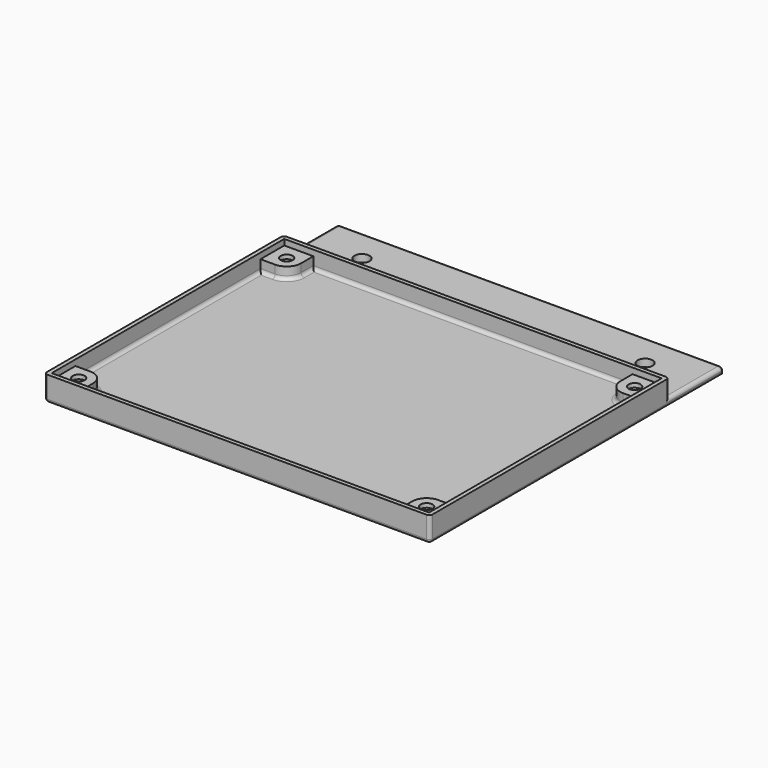
from build123d import *

# Parameters (mm, degrees)
SKETCH005_W  = 112.87
SKETCH005_H  = 87.5
PAD_DEPTH    = 2.2
SKETCH006_W  = 112.87
SKETCH006_H  = 87.5
PAD001_DEPTH = 2.2
SKETCH007_W  = 112.87
SKETCH007_H  = 87.5
SKETCH007_R  = 1.75
PAD002_DEPTH = 1.2
SKETCH008_W  = 112.87
SKETCH008_H  = 87.5
PAD003_DEPTH = 1.7
SKETCH010_W  = 112.87
SKETCH010_H  = 20
SKETCH010_R  = 2.2
PAD004_DEPTH = 2.2
FILLET_R     = 1


with BuildPart() as part:
    # Sketch005 → Pad (new body)
    with BuildSketch(Plane.XY):
        Rectangle(SKETCH005_W, SKETCH005_H)
        Polygon((-47.980514, 36.35), (-47.980514, 39.75), (-50.925, 41.45), (-53.869486, 39.75), (-53.869486, 36.35), (-50.925, 34.65), align=None, mode=Mode.SUBTRACT)
        Polygon((53.869486, 36.35), (53.869486, 39.75), (50.925, 41.45), (47.980514, 39.75), (47.980514, 36.35), (50.925, 34.65), align=None, mode=Mode.SUBTRACT)
        Polygon((53.869486, -36.35), (50.925, -34.65), (47.980514, -36.35), (47.980514, -39.75), (50.925, -41.45), (53.869486, -39.75), align=None, mode=Mode.SUBTRACT)
        Polygon((-47.980514, -39.75), (-47.980514, -36.35), (-50.925, -34.65), (-53.869486, -36.35), (-53.869486, -39.75), (-50.925, -41.45), align=None, mode=Mode.SUBTRACT)
    extrude(amount=PAD_DEPTH)

    # Sketch006 → Pad001 (join)
    with BuildSketch(Plane.XY.offset(2.2)):
        Rectangle(SKETCH006_W, SKETCH006_H)
        with BuildLine():
            Line((55.235, 33.85), (55.235, -33.85))
            Line((50.925, -33.85), (55.235, -33.85))
            ThreePointArc((50.925, -33.85), (47.955152, -35.080152), (46.725, -38.05))
            Line((46.725, -38.05), (46.725, -42.55))
            Line((46.725, -42.55), (-46.725, -42.55))
            Line((-46.725, -38.05), (-46.725, -42.55))
            ThreePointArc((-46.725, -38.05), (-47.955152, -35.080152), (-50.925, -33.85))
            Line((-50.925, -33.85), (-55.235, -33.85))
            Line((-55.235, -33.85), (-55.235, 33.85))
            Line((-55.235, 33.85), (-50.925, 33.85))
            ThreePointArc((-50.925, 33.85), (-47.955152, 35.080152), (-46.725, 38.05))
            Line((-46.725, 42.55), (-46.725, 38.05))
            Line((-46.725, 42.55), (46.725, 42.55))
            Line((46.725, 38.05), (46.725, 42.55))
            ThreePointArc((46.725, 38.05), (47.955152, 35.080152), (50.925, 33.85))
            Line((50.925, 33.85), (55.235, 33.85))
        make_face(mode=Mode.SUBTRACT)
        Polygon((-47.980514, 36.35), (-47.980514, 39.75), (-50.925, 41.45), (-53.869486, 39.75), (-53.869486, 36.35), (-50.925, 34.65), align=None, mode=Mode.SUBTRACT)
        Polygon((53.869486, 36.35), (53.869486, 39.75), (50.925, 41.45), (47.980514, 39.75), (47.980514, 36.35), (50.925, 34.65), align=None, mode=Mode.SUBTRACT)
        Polygon((53.869486, -36.35), (50.925, -34.65), (47.980514, -36.35), (47.980514, -39.75), (50.925, -41.45), (53.869486, -39.75), align=None, mode=Mode.SUBTRACT)
        Polygon((-47.980514, -39.75), (-47.980514, -36.35), (-50.925, -34.65), (-53.869486, -36.35), (-53.869486, -39.75), (-50.925, -41.45), align=None, mode=Mode.SUBTRACT)
    extrude(amount=PAD001_DEPTH)

    # Sketch007 → Pad002 (join)
    with BuildSketch(Plane.XY.offset(4.4)):
        Rectangle(SKETCH007_W, SKETCH007_H)
        with Locations((-50.925, 38.05)):
            Circle(SKETCH007_R, mode=Mode.SUBTRACT)
        with Locations((50.925, 38.05)):
            Circle(SKETCH007_R, mode=Mode.SUBTRACT)
        with Locations((50.925, -38.05)):
            Circle(SKETCH007_R, mode=Mode.SUBTRACT)
        with Locations((-50.925, -38.05)):
            Circle(SKETCH007_R, mode=Mode.SUBTRACT)
        with BuildLine():
            Line((55.235, 33.85), (55.235, -33.85))
            Line((50.925, -33.85), (55.235, -33.85))
            ThreePointArc((50.925, -33.85), (47.955152, -35.080152), (46.725, -38.05))
            Line((46.725, -38.05), (46.725, -42.55))
            Line((46.725, -42.55), (-46.725, -42.55))
            Line((-46.725, -38.05), (-46.725, -42.55))
            ThreePointArc((-46.725, -38.05), (-47.955152, -35.080152), (-50.925, -33.85))
            Line((-50.925, -33.85), (-55.235, -33.85))
            Line((-55.235, -33.85), (-55.235, 33.85))
            Line((-55.235, 33.85), (-50.925, 33.85))
            ThreePointArc((-50.925, 33.85), (-47.955152, 35.080152), (-46.725, 38.05))
            Line((-46.725, 42.55), (-46.725, 38.05))
            Line((-46.725, 42.55), (46.725, 42.55))
            Line((46.725, 38.05), (46.725, 42.55))
            ThreePointArc((46.725, 38.05), (47.955152, 35.080152), (50.925, 33.85))
            Line((50.925, 33.85), (55.235, 33.85))
        make_face(mode=Mode.SUBTRACT)
    extrude(amount=PAD002_DEPTH)

    # Sketch008 → Pad003 (join)
    with BuildSketch(Plane.XY.offset(5.6)):
        Rectangle(SKETCH008_W, SKETCH008_H)
        Polygon((55.235, 33.85), (55.235, -33.85), (55.235, -42.55), (46.725, -42.55), (-46.725, -42.55), (-55.235, -42.55), (-55.235, -33.85), (-55.235, 33.85), (-55.235, 42.55), (-46.725, 42.55), (46.725, 42.55), (55.235, 42.55), align=None, mode=Mode.SUBTRACT)
    extrude(amount=PAD003_DEPTH)

    # Sketch010 → Pad004 (join)
    with BuildSketch(Plane.XY):
        with Locations((0, 53.75)):
            Rectangle(SKETCH010_W, SKETCH010_H)
        with Locations((-41.435, 53.75)):
            Circle(SKETCH010_R, mode=Mode.SUBTRACT)
        with Locations((41.435, 53.75)):
            Circle(SKETCH010_R, mode=Mode.SUBTRACT)
    extrude(amount=PAD004_DEPTH)

    # Fillet
    fillet_edges = [part.edges().sort_by_distance(p)[0] for p in [
        (-56.435, 10, 0),
        (46.725, 40.3, 2.2),
        (0, 42.55, 2.2),
        (-46.725, 40.3, 2.2),
        (-47.955152, 35.080152, 2.2),
        (-53.08, 33.85, 2.2),
        (-55.235, 0, 2.2),
        (-53.08, -33.85, 2.2),
        (-47.955152, -35.080152, 2.2),
        (-46.725, -40.3, 2.2),
        (0, -42.55, 2.2),
        (46.725, -40.3, 2.2),
        (47.955152, -35.080152, 2.2),
        (53.08, -33.85, 2.2),
        (55.235, 0, 2.2),
        (53.08, 33.85, 2.2),
        (47.955152, 35.080152, 2.2),
        (0, -43.75, 0),
        (56.435, 10, 0),
        (56.435, -43.75, 3.65),
        (56.435, 43.75, 4.75),
        (56.435, 53.75, 2.2),
        (56.435, 63.75, 1.1),
        (-56.435, 63.75, 1.1),
        (-56.435, 53.75, 2.2),
        (0, 63.75, 2.2),
        (-56.435, 43.75, 4.75),
        (-56.435, -43.75, 3.65),
    ]]
    fillet(fillet_edges, radius=FILLET_R)


solid = part.part
